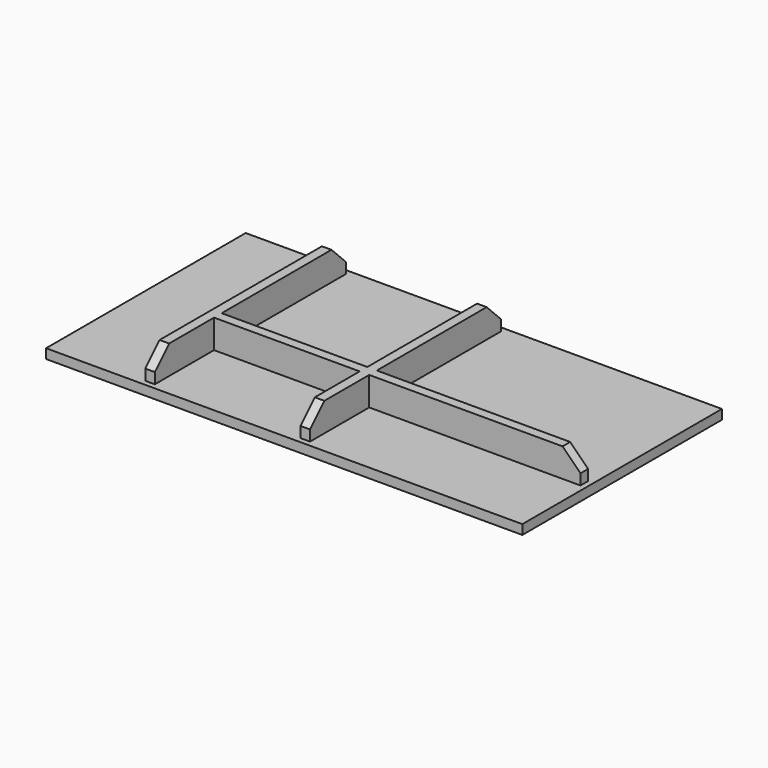
from build123d import *

# Parameters (mm, degrees)
F0_W     = 39.9
F0_H     = 20.9
F1_DEPTH = 0.8
F3_DEPTH = 2.4
F4_SIZE  = 1.5


with BuildPart() as f1:
    # F0 (on Top) → F1 (new body)
    with BuildSketch(Plane.XY):
        Rectangle(F0_W, F0_H)
    extrude(amount=F1_DEPTH)

    # F2 (on face) → F3 (join)
    with BuildSketch(Plane.XY.offset(0.8)):
        Polygon((-12, -10), (-11.2, -10), (-11.2, -3.8), (1, -3.8), (1, -10), (1.8, -10), (1.8, -3.8), (19.5, -3.8), (19.5, -3), (1.8, -3), (1.8, 10), (1, 10), (1, -3), (-11.2, -3), (-11.2, 10), (-12, 10), align=None)
    extrude(amount=F3_DEPTH)

    # F4
    f4_edges = [f1.edges().sort_by_distance(p)[0] for p in [
        (-11.6, -10, 3.2),
        (1.4, -10, 3.2),
        (-11.6, 10, 3.2),
        (1.4, 10, 3.2),
        (19.5, -3.4, 3.2),
    ]]
    chamfer(f4_edges, length=F4_SIZE)


solid = f1.part
